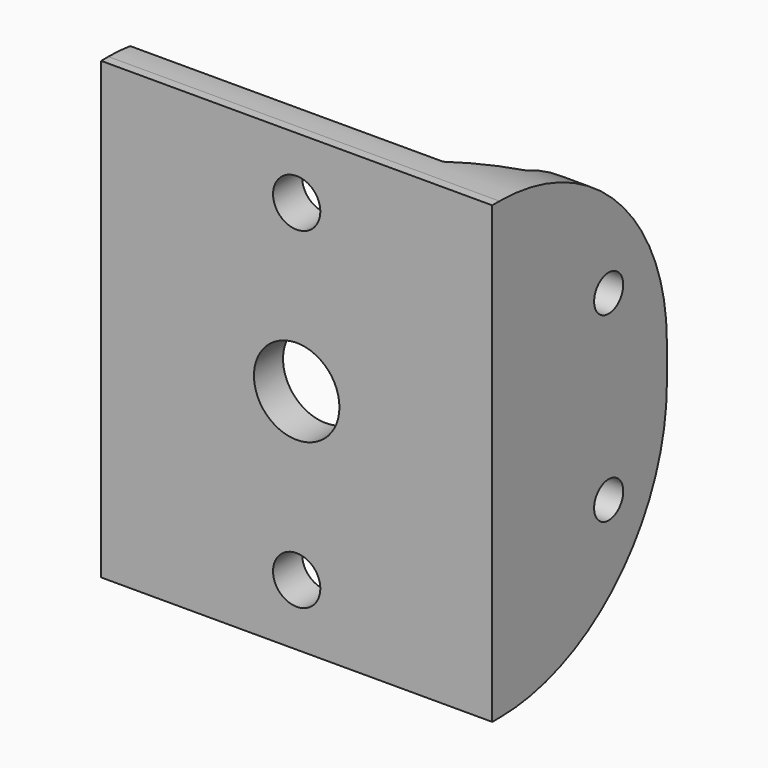
from build123d import *

# Parameters (mm, degrees)
PAD003_DEPTH    = 50
SKETCH_R        = 2.6
SKETCH_R_2      = 4.7
POCKET_DEPTH    = 4
SKETCH005_R     = 2
POCKET001_DEPTH = 3.6
CHAMFER_SIZE    = 5
FILLET_R        = 23


with BuildPart() as part:
    # Sketch003 → Pad003 (new body)
    with BuildSketch(Plane.XY):
        Polygon((-43, 4), (-3.6, 4), (-3.6, 24), (0, 24), (0, 0), (-43, 0), align=None)
    extrude(amount=PAD003_DEPTH)

    # Sketch → Pocket (cut)
    with BuildSketch(Plane.XZ):
        with Locations((-21.5, 43.25)):
            Circle(SKETCH_R)
        with Locations((-21.5, 6.75)):
            Circle(SKETCH_R)
        with Locations((-21.5, 25)):
            Circle(SKETCH_R_2)
    extrude(amount=-POCKET_DEPTH, mode=Mode.SUBTRACT)

    # Sketch005 → Pocket001 (cut)
    with BuildSketch(Plane.YZ):
        with Locations((16, 35)):
            Circle(SKETCH005_R)
        with Locations((16, 15)):
            Circle(SKETCH005_R)
    extrude(amount=-POCKET001_DEPTH, mode=Mode.SUBTRACT)

    # Chamfer
    chamfer_edges = [part.edges().sort_by_distance(p)[0] for p in [
        (-3.6, 4, 25),
    ]]
    chamfer(chamfer_edges, length=CHAMFER_SIZE)

    # Fillet
    fillet_edges = [part.edges().sort_by_distance(p)[0] for p in [
        (-1.8, 24, 0),
        (-1.8, 24, 50),
    ]]
    fillet(fillet_edges, radius=FILLET_R)


solid = part.part
